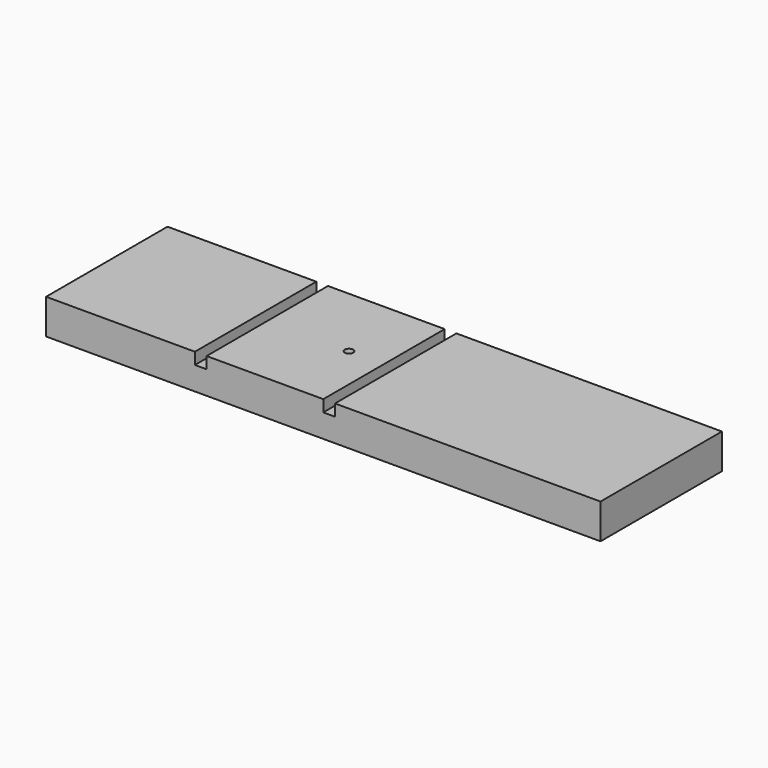
from build123d import *

# Parameters (mm, degrees)
F0_W           = 301.625
F0_H           = 82.55
F1_DEPTH       = 19.05
F2_W           = 6.35
F2_H           = 82.55
F3_DEPTH       = 6.35
F5_D           = 4.572
F5_CSINK_D     = 9.1186
F5_CSINK_ANGLE = 82
F7_D           = 3.175
F7_DEPTH       = 12.7
F7_TIP         = 0.9538662327


with BuildPart() as f1:
    # F0 (on Top) → F1 (new body)
    with BuildSketch(Plane.XY):
        with Locations((36.5125, 0)):
            Rectangle(F0_W, F0_H)
    extrude(amount=F1_DEPTH)

    # F2 (on face) → F3 (cut)
    with BuildSketch(Plane.XY.offset(19.05)):
        with Locations((-30.1625, 0)):
            Rectangle(F2_W, F2_H)
        with Locations((39.6875, 0)):
            Rectangle(F2_W, F2_H)
    extrude(amount=-F3_DEPTH, mode=Mode.SUBTRACT)

    # F5 (through all)
    with Locations(Plane(origin=(0, 0, 0), x_dir=(1, 0, 0), z_dir=(0, 0, -1))):
        with Locations((17.4625, 0)):
            CounterSinkHole(F5_D / 2, F5_CSINK_D / 2, counter_sink_angle=F5_CSINK_ANGLE)

    # F7
    with Locations(Plane(origin=(-114.3, 0, 0), x_dir=(0, -1, 0), z_dir=(-1, 0, 0))):
        with Locations((-28.9729410976, 9.525), (28.1770589024, 9.525)):
            Hole(F7_D / 2, depth=F7_DEPTH)
            with Locations((0, 0, -(F7_DEPTH + F7_TIP / 2))):  # 118° drill point
                Cone(0, F7_D / 2, F7_TIP, mode=Mode.SUBTRACT)


solid = f1.part
